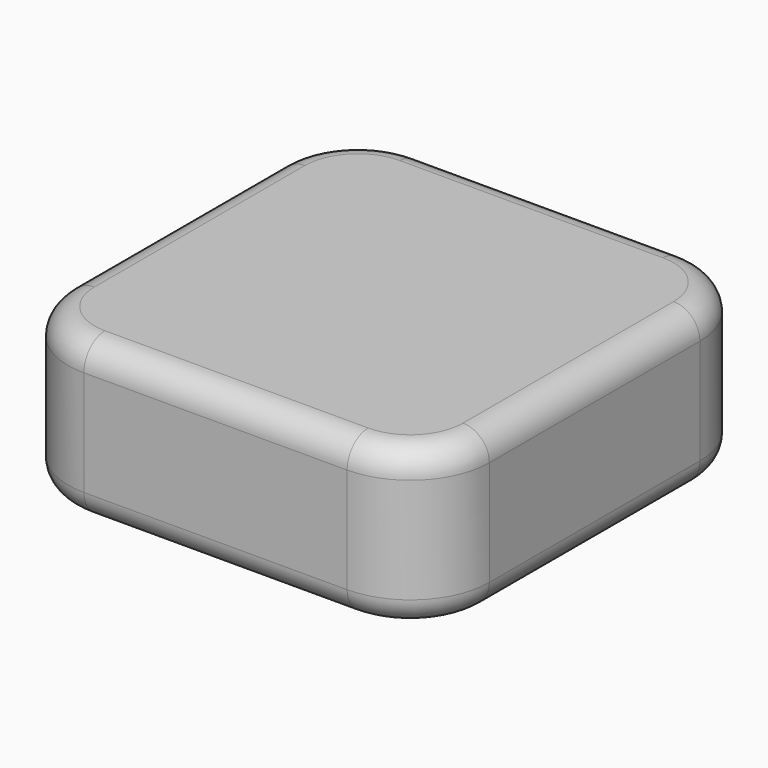
from build123d import *

# Parameters (mm, degrees)
F1_DEPTH = 30
F2_R     = 5


with BuildPart() as f1:
    # F0 (on Top) → F1 (new body)
    with BuildSketch(Plane.XY):
        with BuildLine():
            ThreePointArc((0, 15), (4.393398, 4.393398), (15, 0))
            Line((15, 0), (65, 0))
            ThreePointArc((65, 0), (75.606602, 4.393398), (80, 15))
            Line((80, 15), (80, 65))
            ThreePointArc((80, 65), (75.606602, 75.606602), (65, 80))
            Line((65, 80), (15, 80))
            ThreePointArc((15, 80), (4.393398, 75.606602), (0, 65))
            Line((0, 65), (0, 15))
        make_face()
    extrude(amount=F1_DEPTH)

    # F2
    f2_edges = [f1.edges().sort_by_distance(p)[0] for p in [
        (0, 40, 30),
        (4.393398, 4.393398, 30),
        (40, 0, 30),
        (75.606602, 4.393398, 30),
        (80, 40, 30),
        (75.606602, 75.606602, 30),
        (40, 80, 30),
        (4.393398, 75.606602, 30),
        (0, 40, 0),
        (4.393398, 4.393398, 0),
        (40, 0, 0),
        (75.606602, 4.393398, 0),
        (80, 40, 0),
        (75.606602, 75.606602, 0),
        (40, 80, 0),
        (4.393398, 75.606602, 0),
    ]]
    fillet(f2_edges, radius=F2_R)


solid = f1.part
